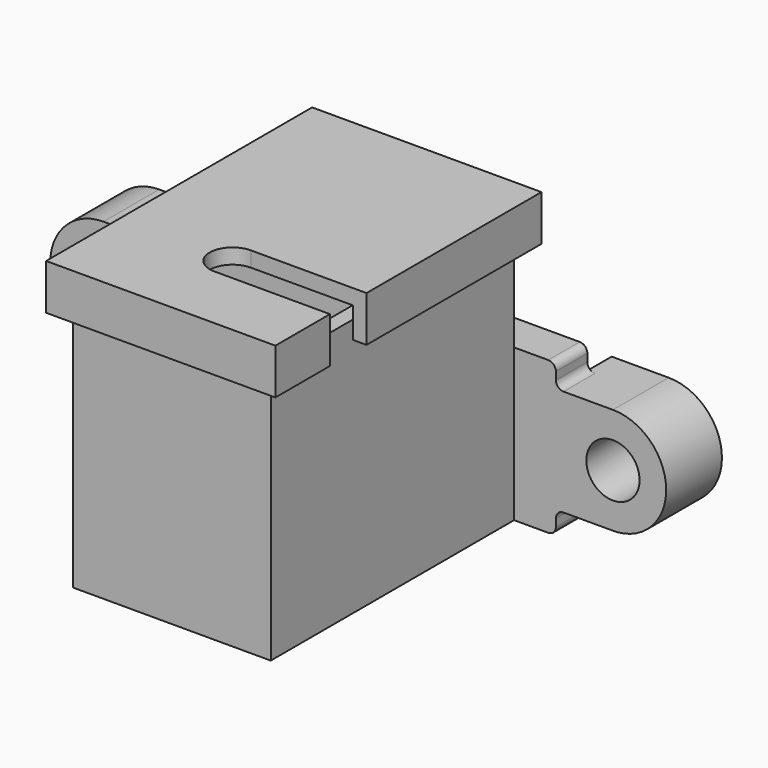
from build123d import *

# Parameters (mm, degrees)
PAD_DEPTH       = 10
SKETCH001_R     = 1.75
POCKET_DEPTH    = 5
FILLET_R        = 0.5
PAD004_DEPTH    = 10
SKETCH013_R     = 1.75
POCKET006_DEPTH = 5
FILLET003_R     = 0.5
SKETCH014_W     = 13
SKETCH014_H     = 17
PAD005_DEPTH    = 20
SKETCH015_W     = 11
SKETCH015_H     = 8
POCKET007_DEPTH = 14
SKETCH016_R     = 1.5
POCKET008_DEPTH = 3.001
SKETCH017_W     = 15.076754
SKETCH017_H     = 21.868633
PAD006_DEPTH    = 3
SKETCH018_W     = 13.276754
SKETCH018_H     = 20.068633
POCKET009_DEPTH = 2
SKETCH021_R     = 1.5
POCKET010_DEPTH = 5
POCKET011_DEPTH = 5


with BuildPart() as body:
    # Sketch → Pad (new body)
    with BuildSketch(Plane.XY):
        Polygon((-20.5, 4.582536), (-20.5, 0), (20.5, 0), (20.5, 4.582536), (13, 4.582536), (13, 2.582536), (-13, 2.582536), (-13, 4.582536), align=None)
    extrude(amount=PAD_DEPTH)

    # Sketch001 (on Face8 of Pad) → Pocket (cut)
    with BuildSketch(Plane(origin=(0, 4.582536, 0), x_dir=(-1, 0, 0), z_dir=(0, 1, 0))):
        with Locations((-16.75, 5)):
            Circle(SKETCH001_R)
        with Locations((16.75, 5)):
            Circle(SKETCH001_R)
        with BuildLine():
            ThreePointArc((-16.75, 8.5), (-20.249488, 4.940122), (-16.630262, 1.502049))
            Line((-16.630262, 1.502049), (-13, 1.502049))
            Line((-13, 0), (-13, 1.502049))
            Line((-20.5, 0), (-13, 0))
            Line((-20.5, 10), (-20.5, 0))
            Line((-20.5, 10), (-13, 10))
            Line((-13, 10), (-13, 8.5))
            Line((-16.75, 8.5), (-13, 8.5))
        make_face()
        with BuildLine():
            ThreePointArc((16.630262, 1.502049), (20.249488, 4.940122), (16.75, 8.5))
            Line((16.75, 8.5), (13, 8.5))
            Line((13, 10), (13, 8.5))
            Line((20.5, 10), (13, 10))
            Line((20.5, 10), (20.5, 0))
            Line((20.5, 0), (13, 0))
            Line((13, 0), (13, 1.502049))
            Line((16.630262, 1.502049), (13, 1.502049))
        make_face()
    extrude(amount=-POCKET_DEPTH, mode=Mode.SUBTRACT)

    # Fillet
    fillet_edges = [body.edges().sort_by_distance(p)[0] for p in [
        (-13, 1.291268, 1.502049),
        (-13, 1.291268, 0),
        (-13, 1.291268, 10),
        (-13, 1.291268, 8.5),
        (13, 1.291268, 10),
        (13, 1.291268, 8.5),
        (13, 1.291268, 1.502049),
        (13, 1.291268, 0),
    ]]
    fillet(fillet_edges, radius=FILLET_R)


with BuildPart() as body003:
    # Sketch012 → Pad004 (new body)
    with BuildSketch(Plane.XY):
        Polygon((-20.5, 4.582536), (-20.5, 0), (20.5, 0), (20.5, 4.582536), (13, 4.582536), (13, 2.582536), (-13, 2.582536), (-13, 4.582536), align=None)
    extrude(amount=PAD004_DEPTH)

    # Sketch013 (on Face8 of Pad004) → Pocket006 (cut)
    with BuildSketch(Plane(origin=(0, 4.582536, 0), x_dir=(-1, 0, 0), z_dir=(0, 1, 0))):
        with Locations((-16.75, 5)):
            Circle(SKETCH013_R)
        with Locations((16.75, 5)):
            Circle(SKETCH013_R)
        with BuildLine():
            ThreePointArc((-16.75, 8.5), (-20.249488, 4.940122), (-16.630262, 1.502049))
            Line((-16.630262, 1.502049), (-13, 1.502049))
            Line((-13, 0), (-13, 1.502049))
            Line((-20.5, 0), (-13, 0))
            Line((-20.5, 10), (-20.5, 0))
            Line((-20.5, 10), (-13, 10))
            Line((-13, 10), (-13, 8.5))
            Line((-16.75, 8.5), (-13, 8.5))
        make_face()
        with BuildLine():
            ThreePointArc((16.630262, 1.502049), (20.249488, 4.940122), (16.75, 8.5))
            Line((16.75, 8.5), (13, 8.5))
            Line((13, 10), (13, 8.5))
            Line((20.5, 10), (13, 10))
            Line((20.5, 10), (20.5, 0))
            Line((20.5, 0), (13, 0))
            Line((13, 0), (13, 1.502049))
            Line((16.630262, 1.502049), (13, 1.502049))
        make_face()
    extrude(amount=-POCKET006_DEPTH, mode=Mode.SUBTRACT)

    # Fillet003
    fillet003_edges = [body003.edges().sort_by_distance(p)[0] for p in [
        (-13, 1.291268, 1.502049),
        (-13, 1.291268, 0),
        (-13, 1.291268, 10),
        (-13, 1.291268, 8.5),
        (13, 1.291268, 10),
        (13, 1.291268, 8.5),
        (13, 1.291268, 1.502049),
        (13, 1.291268, 0),
    ]]
    fillet(fillet003_edges, radius=FILLET003_R)

    # Sketch014 (on Face2 of Fillet003) → Pad005 (join)
    with BuildSketch(Plane.XZ):
        with Locations((3.75, 8.5)):
            Rectangle(SKETCH014_W, SKETCH014_H)
    extrude(amount=PAD005_DEPTH)

    # Sketch015 (on Face29 of Pad005) → Pocket007 (cut)
    with BuildSketch(Plane.XY.offset(17)):
        with Locations((3.75, -15)):
            Rectangle(SKETCH015_W, SKETCH015_H)
    extrude(amount=-POCKET007_DEPTH, mode=Mode.SUBTRACT)

    # Sketch016 (on Face40 of Pocket007) → Pocket008 (cut, through all)
    with BuildSketch(Plane.XY.offset(3)):
        with Locations((3.75, -15)):
            Circle(SKETCH016_R)
    extrude(amount=-POCKET008_DEPTH, mode=Mode.SUBTRACT)


with BuildPart() as body004:
    # Sketch017 → Pad006 (new body)
    with BuildSketch(Plane.XY):
        with Locations((3.818377, -10.069195)):
            Rectangle(SKETCH017_W, SKETCH017_H)
    extrude(amount=PAD006_DEPTH)

    # Sketch018 (on Face5 of Pad006) → Pocket009 (cut)
    with BuildSketch(Plane(origin=(0, 0, 0), x_dir=(1, 0, 0), z_dir=(0, 0, -1))):
        with Locations((3.818377, 10.069194)):
            Rectangle(SKETCH018_W, SKETCH018_H)
    extrude(amount=-POCKET009_DEPTH, mode=Mode.SUBTRACT)

    # Sketch021 (on Face11 of Pocket009) → Pocket010 (cut)
    with BuildSketch(Plane(origin=(0, 0, 2), x_dir=(1, 0, 0), z_dir=(0, 0, -1))):
        with Locations((3.749938, 15.015735)):
            Circle(SKETCH021_R)
    extrude(amount=-POCKET010_DEPTH, mode=Mode.SUBTRACT)

    # Sketch022 (on Face5 of Pocket010) → Pocket011 (cut)
    with BuildSketch(Plane.XY.offset(3)):
        with BuildLine():
            Line((3.749938, -16.515735), (11.946221, -16.515735))
            Line((11.946221, -16.515735), (11.946221, -13.515735))
            Line((11.946221, -13.515735), (3.749938, -13.515735))
            ThreePointArc((3.749938, -13.515735), (2.249938, -15.015735), (3.749938, -16.515735))
        make_face()
    extrude(amount=-POCKET011_DEPTH, mode=Mode.SUBTRACT)


with BuildPart() as body004_1:
    # Body004 placement: moved
    add(body004.part.moved(Location((0, 0, 16))))


solid = Compound([body.part, body003.part, body004_1.part])
